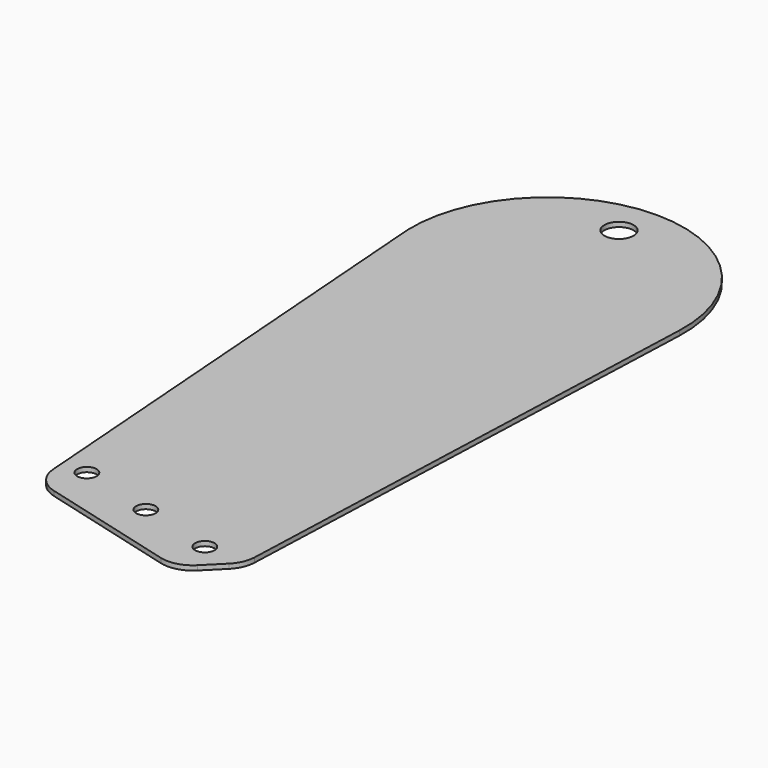
from build123d import *

# Parameters (mm, degrees)
F1_DEPTH = 50.8
F2_W     = 141.4932012558
F2_H     = 197.677500546
F3_DEPTH = 25.4
F4_R     = 1.5875
F5_DEPTH = 25.4
F6_R     = 2.38125
F7_DEPTH = 25.4
F8_R     = 5.08


with BuildPart() as f1:
    # F0 (on Right) → F1 (new body, symmetric)
    with BuildSketch(Plane.YZ):
        Polygon((-9.8313118777, -5.1045094135), (-73.3876270169, -5.1045094135), (-73.3876270169, -5.8665094135), (-9.8313118777, -5.8665094135), (40.9123729831, -5.8665094135), (40.9123729831, -5.1045094135), align=None)
    extrude(amount=F1_DEPTH, both=True)

    # F2 (on Top) → F3 (cut)
    with BuildSketch(Plane.XY):
        with Locations((-0.8716285229, -40.7481454313)):
            Rectangle(F2_W, F2_H)
        with BuildLine():
            Line((-13.740606685, -65.7309788432), (-20.0346057486, 17.8250920772))
            ThreePointArc((-20.0346057486, 17.8250920772), (2.1903942514, 40.9123729831), (24.4153942514, 17.8250920772))
            Line((24.4153942514, 17.8250920772), (21.184393315, -67.0376270169))
            Line((21.184393315, -67.0376270169), (14.834393315, -73.3876270169))
            Line((14.834393315, -73.3876270169), (-13.740606685, -65.7309788432))
        make_face(mode=Mode.SUBTRACT)
    extrude(amount=-F3_DEPTH, mode=Mode.SUBTRACT)

    # F4 (on face) → F5 (cut)
    with BuildSketch(Plane.XY.offset(-5.1045094135)):
        with Locations((-10.0768637425, -60.1386720603)):
            Circle(F4_R)
        with Locations((2.1903942514, -63.4256739331)):
            Circle(F4_R)
        with Locations((14.4576522453, -66.7126758059)):
            Circle(F4_R)
    extrude(amount=-F5_DEPTH, mode=Mode.SUBTRACT)

    # F6 (on face) → F7 (cut)
    with BuildSketch(Plane.XY.offset(-5.1045094135)):
        with Locations((1.1186605513, 34.5623729831)):
            Circle(F6_R)
    extrude(amount=-F7_DEPTH, mode=Mode.SUBTRACT)

    # F8
    f8_edges = [f1.edges().sort_by_distance(p)[0] for p in [
        (-13.740607, -65.730979, -5.485509),
        (14.834393, -73.387627, -5.485509),
        (21.184393, -67.037627, -5.485509),
    ]]
    fillet(f8_edges, radius=F8_R)


solid = f1.part
